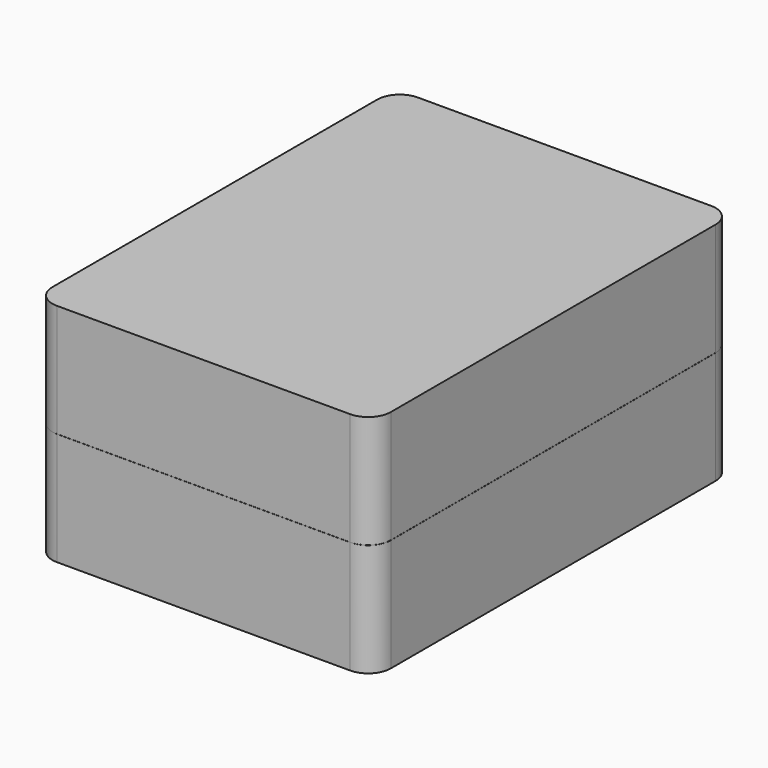
from build123d import *

# Parameters (mm, degrees)
PAD_DEPTH    = 25
THICKNESS_T  = -2
PAD001_DEPTH = 3
PAD002_DEPTH = 25
POCKET_DEPTH = 3


with BuildPart() as body:
    # Sketch → Pad (new body)
    with BuildSketch(Plane.XY):
        with BuildLine():
            Line((-37.5, 45), (-37.5, -45))
            ThreePointArc((-37.5, -45), (-36.035534, -48.535534), (-32.5, -50))
            Line((-32.5, -50), (32.5, -50))
            ThreePointArc((32.5, -50), (36.035534, -48.535534), (37.5, -45))
            Line((37.5, -45), (37.5, 45))
            ThreePointArc((37.5, 45), (36.035534, 48.535534), (32.5, 50))
            Line((32.5, 50), (-32.5, 50))
            ThreePointArc((-32.5, 50), (-36.035534, 48.535534), (-37.5, 45))
        make_face()
    extrude(amount=PAD_DEPTH)

    # Thickness
    thickness_openings = [body.faces().sort_by_distance(p)[0] for p in [
        (0, 0, 25),
    ]]
    offset(amount=THICKNESS_T, openings=thickness_openings)

    # Sketch001 (on Face10 of Thickness) → Pad001 (join)
    with BuildSketch(Plane.XY.offset(25)):
        with BuildLine():
            Line((-36.5, 45), (-36.5, -45))
            ThreePointArc((-36.5, -45), (-35.328427, -47.828427), (-32.5, -49))
            Line((-32.5, -49), (32.5, -49))
            ThreePointArc((32.5, -49), (35.328427, -47.828427), (36.5, -45))
            Line((36.5, -45), (36.5, 45))
            ThreePointArc((36.5, 45), (35.328427, 47.828427), (32.5, 49))
            Line((32.5, 49), (-32.5, 49))
            ThreePointArc((-32.5, 49), (-35.328427, 47.828427), (-36.5, 45))
        make_face()
        with BuildLine():
            Line((-35.5, 45), (-35.5, -45))
            ThreePointArc((-35.5, -45), (-34.62132, -47.12132), (-32.5, -48))
            Line((-32.5, -48), (32.5, -48))
            ThreePointArc((32.5, -48), (34.62132, -47.12132), (35.5, -45))
            Line((35.5, -45), (35.5, 45))
            ThreePointArc((35.5, 45), (34.62132, 47.12132), (32.5, 48))
            Line((32.5, 48), (-32.5, 48))
            ThreePointArc((-32.5, 48), (-34.62132, 47.12132), (-35.5, 45))
        make_face(mode=Mode.SUBTRACT)
    extrude(amount=PAD001_DEPTH)


with BuildPart() as lid:
    # Sketch002 → Pad002 (new body)
    with BuildSketch(Plane.XY.offset(25.02)):
        with BuildLine():
            Line((-37.5, 45), (-37.5, -45))
            ThreePointArc((-37.5, -45), (-36.035534, -48.535534), (-32.5, -50))
            Line((-32.5, -50), (32.5, -50))
            ThreePointArc((32.5, -50), (36.035534, -48.535534), (37.5, -45))
            Line((37.5, -45), (37.5, 45))
            ThreePointArc((37.5, 45), (36.035534, 48.535534), (32.5, 50))
            Line((32.5, 50), (-32.5, 50))
            ThreePointArc((-32.5, 50), (-36.035534, 48.535534), (-37.5, 45))
        make_face()
    extrude(amount=PAD002_DEPTH)

    # Sketch003 (on Face4 of Binder) → Pocket (cut)
    with BuildSketch(Plane(origin=(0, 0, 0), x_dir=(1, 0, 0), z_dir=(0, 0, -1))):
        with BuildLine():
            Line((-36.6, 45), (-36.6, -45))
            ThreePointArc((-36.6, -45), (-35.399138, -47.899138), (-32.5, -49.1))
            Line((-32.5, -49.1), (32.5, -49.1))
            ThreePointArc((32.5, -49.1), (35.399138, -47.899138), (36.6, -45))
            Line((36.6, -45), (36.6, 45))
            ThreePointArc((36.6, 45), (35.399138, 47.899138), (32.5, 49.1))
            Line((32.5, 49.1), (-32.5, 49.1))
            ThreePointArc((-32.5, 49.1), (-35.399138, 47.899138), (-36.6, 45))
        make_face()
        with BuildLine():
            Line((-35.4, 45), (-35.4, -45))
            ThreePointArc((-35.4, -45), (-34.55061, -47.05061), (-32.5, -47.9))
            Line((-32.5, -47.9), (32.5, -47.9))
            ThreePointArc((32.5, -47.9), (34.55061, -47.05061), (35.4, -45))
            Line((35.4, -45), (35.4, 45))
            ThreePointArc((35.4, 45), (34.55061, 47.05061), (32.5, 47.9))
            Line((32.5, 47.9), (-32.5, 47.9))
            ThreePointArc((-32.5, 47.9), (-34.55061, 47.05061), (-35.4, 45))
        make_face(mode=Mode.SUBTRACT)
    extrude(amount=-POCKET_DEPTH, mode=Mode.SUBTRACT)


solid = Compound([body.part, lid.part])
